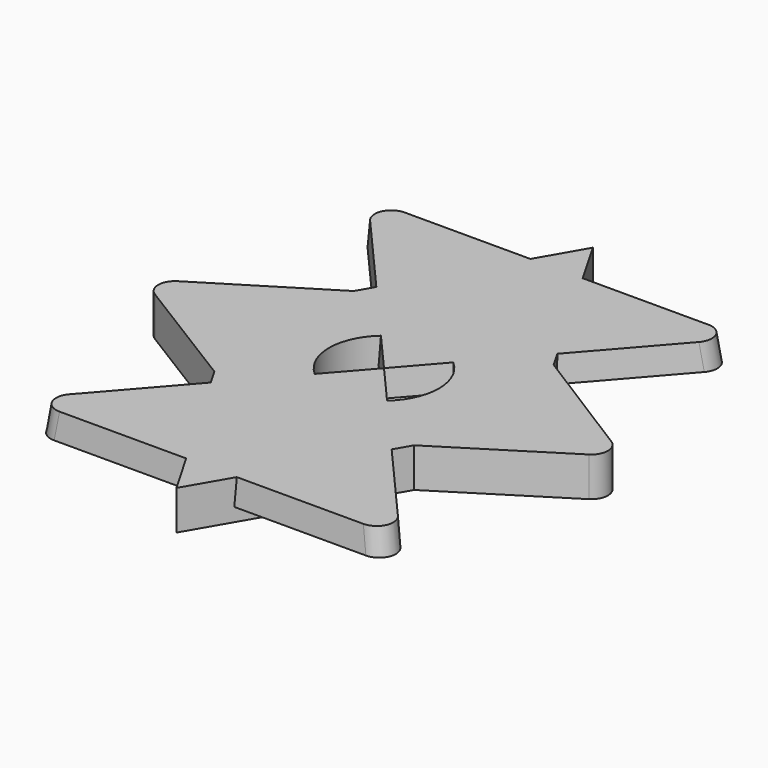
from build123d import *

# Parameters (mm, degrees)
F0_W     = 60
F0_H     = 52.3357634497
F0_R     = 16.5
F1_DEPTH = 11.80754
F3_DEPTH = 7.76524
F3_TAPER = -4
F4_R     = 5
F5_R     = 5


with BuildPart() as f1:
    # F0 (on Top) → F1 (new body)
    with BuildSketch(Plane.XY):
        Polygon((0, 78.3958006123), (-30, 26.1678817249), (30, 26.1678817249), align=None)
        Rectangle(F0_W, F0_H)
        Circle(F0_R, mode=Mode.SUBTRACT)
        Polygon((-30, -26.1678817249), (-30, 26.1678817249), (-72.2627720197, 0), align=None)
        Polygon((71.6058312025, 0), (30, 26.1678817249), (30, -26.1678817249), align=None)
        Polygon((30, -26.1678817249), (-30, -26.1678817249), (0, -77.8738003652), align=None)
    extrude(amount=-F1_DEPTH)

    # F2 (on Top) → F3 (join)
    with BuildSketch(Plane.XY):
        Polygon((56.5895004995, -64.7582306214), (0, 0), (-56.5895004995, -64.7582306214), align=None)
        Polygon((-56.5895004995, 64.7582306214), (0, 0), (56.5895004995, 64.7582306214), align=None)
    extrude(amount=-F3_DEPTH, taper=F3_TAPER)

    # F4
    f4_edges = [f1.edges().sort_by_distance(p)[0] for p in [
        (-57.187308, 65.02973, -3.88262),
        (-72.262772, 0, -5.90377),
        (-57.187308, -65.02973, -3.88262),
    ]]
    fillet(f4_edges, radius=F4_R)

    # F5
    f5_edges = [f1.edges().sort_by_distance(p)[0] for p in [
        (57.187308, 65.02973, -3.88262),
        (71.605831, 0, -5.90377),
        (57.187308, -65.02973, -3.88262),
    ]]
    fillet(f5_edges, radius=F5_R)


solid = f1.part
